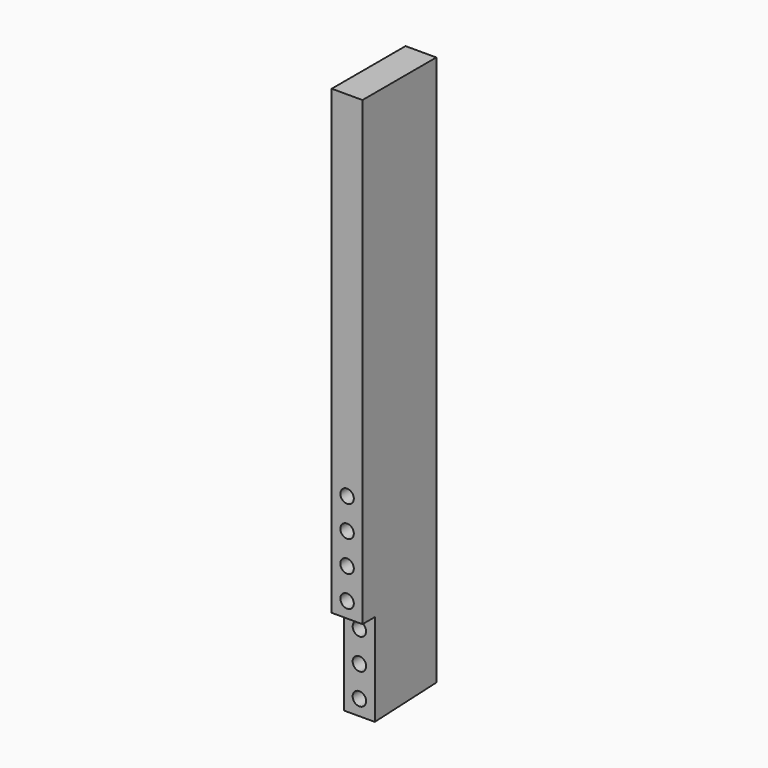
from build123d import *

# Parameters (mm, degrees)
F1_DEPTH = 12.7
F2_R     = 5.55625
F3_DEPTH = 63.501
F4_R     = 5.55625
F5_DEPTH = 76.201


with BuildPart() as f1:
    # F0 (on Right) → F1 (new body, symmetric)
    with BuildSketch(Plane.YZ):
        Polygon((76.2, 457.2), (0, 457.2), (0, 76.2), (12.7, 76.2), (12.7, 0), (76.2, 2.77247), align=None)
    extrude(amount=F1_DEPTH, both=True)

    # F2 (on face) → F3 (cut, through all)
    with BuildSketch(Plane.XZ.offset(-12.7)):
        with Locations((0, 38.1)):
            Circle(F2_R)
        with Locations((0, 63.5)):
            Circle(F2_R)
        with Locations((0, 12.7)):
            Circle(F2_R)
    extrude(amount=-F3_DEPTH, mode=Mode.SUBTRACT)

    # F4 (on face) → F5 (cut, through all)
    with BuildSketch(Plane.XZ):
        with Locations((0, 114.3)):
            Circle(F4_R)
        with Locations((0, 139.7)):
            Circle(F4_R)
        with Locations((0, 88.9)):
            Circle(F4_R)
        with Locations((0, 165.1)):
            Circle(F4_R)
    extrude(amount=-F5_DEPTH, mode=Mode.SUBTRACT)


solid = f1.part
